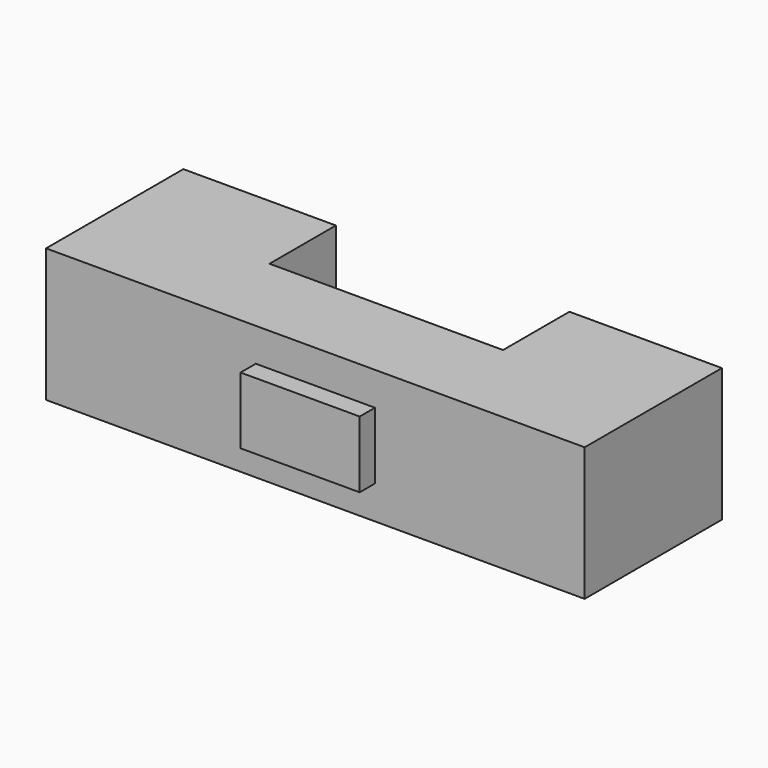
from build123d import *

# Parameters (mm, degrees)
F1_DEPTH = 14
F2_R     = 5.5
F3_DEPTH = 1
F5_DEPTH = 2


with BuildPart() as f1:
    # F0 (on Top) → F1 (new body)
    with BuildSketch(Plane.XY):
        Polygon((-12.25, 0.3), (-12.25, 9), (-28.25, 9), (-28.25, -9), (12.25, -9), (12.25, 0.3), align=None)
        Polygon((28.25, -9), (28.25, 9), (12.25, 9), (12.25, 0.3), (12.25, -9), align=None)
    extrude(amount=F1_DEPTH)

    # F2 (on face) → F3 (join)
    with BuildSketch(Plane(origin=(0, 9, 0), x_dir=(-1, 0, 0), z_dir=(0, 1, 0))):
        with Locations((-20.25, 7)):
            Circle(F2_R)
        with Locations((20.25, 7)):
            Circle(F2_R)
    extrude(amount=F3_DEPTH)

    # F4 (on face) → F5 (join)
    with BuildSketch(Plane.XZ.offset(9)):
        Polygon((-6.25, 3.5), (0, 3.5), (6.25, 3.5), (6.25, 10.5), (0, 10.5), (-6.25, 10.5), align=None)
    extrude(amount=F5_DEPTH)


solid = f1.part
